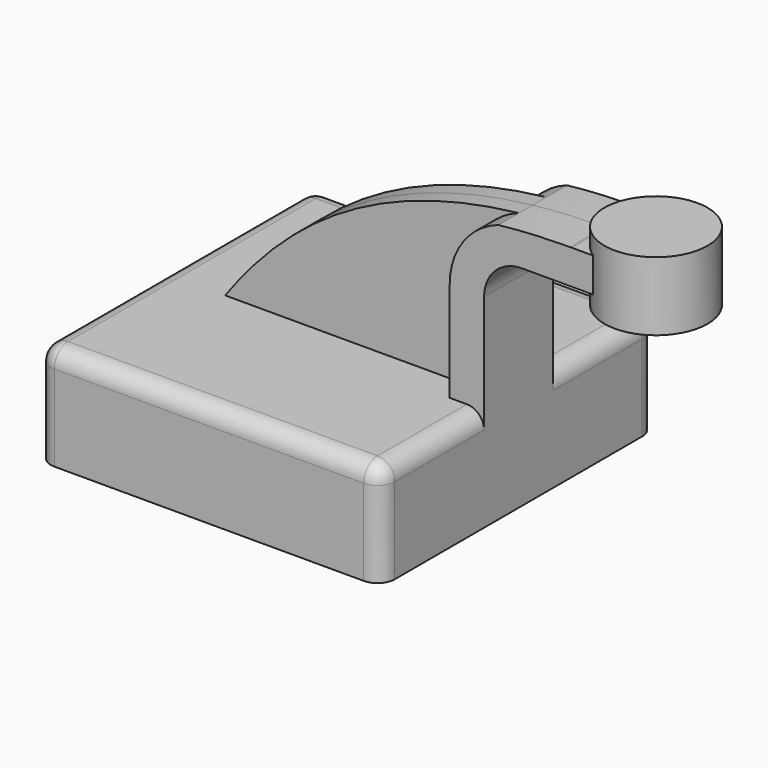
from build123d import *

# Parameters (mm, degrees)
F1_DEPTH = 50
F2_DEPTH = 12.5
F3_DEPTH = 5
F5_R     = 5


with BuildPart() as f1:
    # F0 (on Front) → F1 (new body, symmetric)
    with BuildSketch(Plane.XZ):
        Polygon((-31.3122831285, 15), (-50, 15), (-50, -15), (50, -15), (50, 15), (40, 15), align=None)
    extrude(amount=F1_DEPTH, both=True)

    # F0 (on Front) → F2 (join, symmetric)
    with BuildSketch(Plane.XZ):
        with BuildLine():
            Line((40, 44.0615866161), (40, 15))
            Line((40, 15), (50, 15))
            Line((50, 15), (50, 44.0615866161))
            ThreePointArc((50, 44.0615866161), (53.2037871047, 51.7962128953), (60.9384133839, 55))
            Line((60.9384133839, 55), (75, 55))
            Line((75, 55), (75, 64.9994979734))
            add(Edge.make_bspline(
                [(75, 64.9994979734), (67.590366239, 64.98362656), (60.6448722372, 64.59168303), (54.1236525971, 63.8599751984)],
                knots=[0.3245366314, 0.3245366314, 0.3245366314, 0.3245366314, 15.7199359846, 15.7199359846, 15.7199359846, 15.7199359846], degree=3))
            ThreePointArc((54.1236525971, 63.8599751984), (43.8927770875, 56.2214977294), (40, 44.0615866161))
        make_face()
        with BuildLine():
            add(Edge.make_bspline(
                [(75.469206692, 65), (75.3125979622, 65), (75.156195856, 64.9998325444), (75, 64.9994979734)],
                knots=[0, 0, 0, 0, 0.3245366314, 0.3245366314, 0.3245366314, 0.3245366314], degree=3))
            Line((75, 64.9994979734), (75, 55))
            Line((75, 55), (90, 55))
            Line((90, 55), (90, 65))
            Line((90, 65), (75.469206692, 65))
        make_face()
    extrude(amount=F2_DEPTH, both=True)

    # F0 (on Front) → F3 (join, symmetric)
    with BuildSketch(Plane.XZ):
        with BuildLine():
            add(Edge.make_bspline(
                [(54.1236525971, 63.8599751984), (10.8386087283, 59.0032141413), (-13.7540441275, 39.1773487702), (-31.3122831285, 15)],
                knots=[15.7199359846, 15.7199359846, 15.7199359846, 15.7199359846, 117.9079580362, 117.9079580362, 117.9079580362, 117.9079580362], degree=3))
            Line((-31.3122831285, 15), (40, 15))
            Line((40, 15), (40, 44.0615866161))
            ThreePointArc((40, 44.0615866161), (43.8927770875, 56.2214977294), (54.1236525971, 63.8599751984))
        make_face()
    extrude(amount=F3_DEPTH, both=True)

    # F0 (on Front) → F4 (revolve)
    with BuildSketch(Plane.XZ):
        Polygon((90, 65), (90, 55), (90, 50), (105, 50), (105, 70), (90, 70), align=None)
    revolve(axis=Axis((90, 0, 60), (0, 0, -1)))

    # F5
    f5_edges = [f1.edges().sort_by_distance(p)[0] for p in [
        (50, -50, 0),
        (-50, -50, 0),
        (50, 50, 0),
        (-50, 50, 0),
        (0, 50, 15),
        (-50, 0, 15),
        (0, -50, 15),
        (50, -31.25, 15),
        (50, 31.25, 15),
    ]]
    fillet(f5_edges, radius=F5_R)


solid = f1.part
